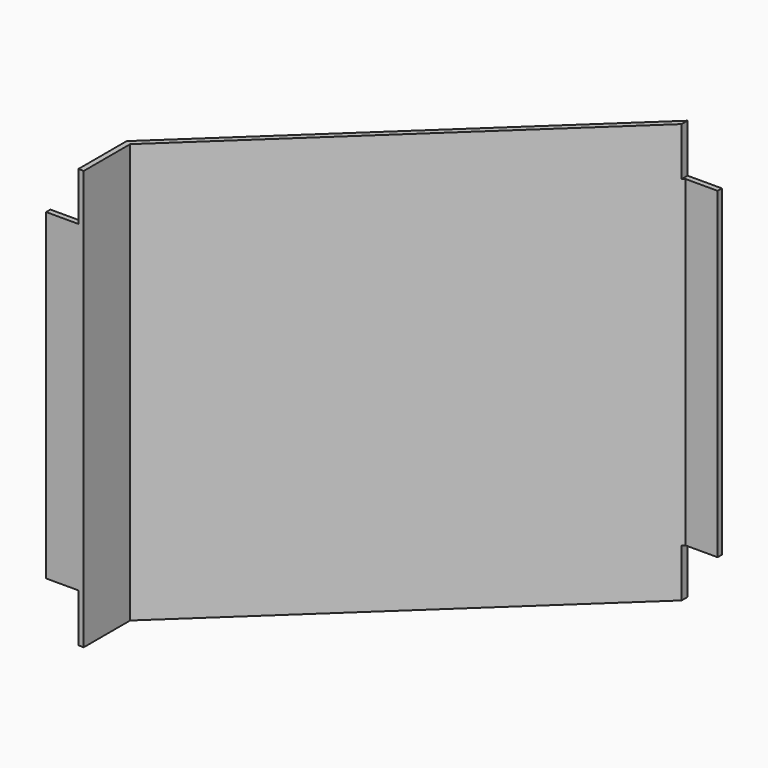
from build123d import *

# Parameters (mm, degrees)
F1_DEPTH = 39
F2_W     = 3
F2_H     = 4.5
F3_DEPTH = 0.5
F4_W     = 3.197795
F4_H     = 4.5
F5_DEPTH = 1


with BuildPart() as f1:
    # F0 (on Top) → F1 (new body)
    with BuildSketch(Plane.XY):
        Polygon((-3, 0.603), (0.5, 0.603), (0.5, 6), (30, 33.67), (33, 33.67), (33, 34.17), (29.802205, 34.17), (0, 6.216542), (0, 1.103), (-3, 1.103), align=None)
    extrude(amount=F1_DEPTH)

    # F2 (on face) → F3 (cut, through all)
    with BuildSketch(Plane(origin=(0, 1.103, 0), x_dir=(-1, 0, 0), z_dir=(0, 1, 0))):
        with Locations((1.5, 2.25)):
            Rectangle(F2_W, F2_H)
        with Locations((1.5, 36.75)):
            Rectangle(F2_W, F2_H)
    extrude(amount=-F3_DEPTH, mode=Mode.SUBTRACT)

    # F4 (on face) → F5 (cut)
    with BuildSketch(Plane(origin=(0, 34.17, 0), x_dir=(-1, 0, 0), z_dir=(0, 1, 0))):
        with Locations((-31.401103, 36.75)):
            Rectangle(F4_W, F4_H)
        with Locations((-31.401103, 2.25)):
            Rectangle(F4_W, F4_H)
    extrude(amount=-F5_DEPTH, mode=Mode.SUBTRACT)


solid = f1.part
